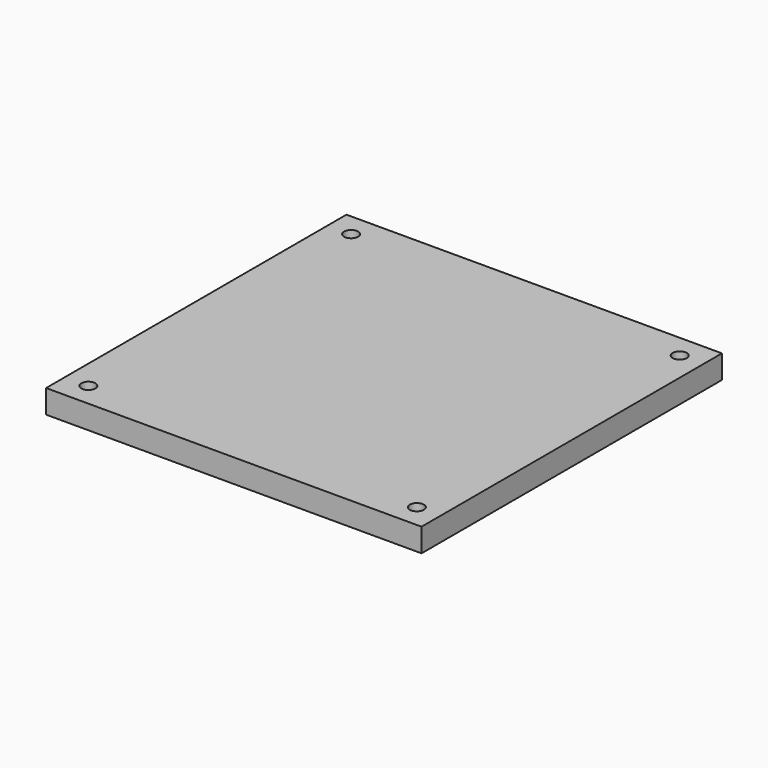
from build123d import *

# Parameters (mm, degrees)
F0_W     = 80
F0_H     = 80
F0_R     = 1.5
F1_DEPTH = 5
F2_SIZE2 = 2.8
F2_SIZE  = 2.8


with BuildPart() as f1:
    # F0 (on Top) → F1 (new body)
    with BuildSketch(Plane.XY):
        Rectangle(F0_W, F0_H)
        with Locations((-35, -35)):
            Circle(F0_R, mode=Mode.SUBTRACT)
        with Locations((35, -35)):
            Circle(F0_R, mode=Mode.SUBTRACT)
        with Locations((-35, 35)):
            Circle(F0_R, mode=Mode.SUBTRACT)
        with Locations((35, 35)):
            Circle(F0_R, mode=Mode.SUBTRACT)
    extrude(amount=F1_DEPTH)

    # F2
    f2_edges = [f1.edges().sort_by_distance(p)[0] for p in [
        (33.5, 35, 0),
        (-36.5, 35, 0),
        (33.5, -35, 0),
        (-36.5, -35, 0),
    ]]
    chamfer(f2_edges, length=F2_SIZE, length2=F2_SIZE2)


solid = f1.part
